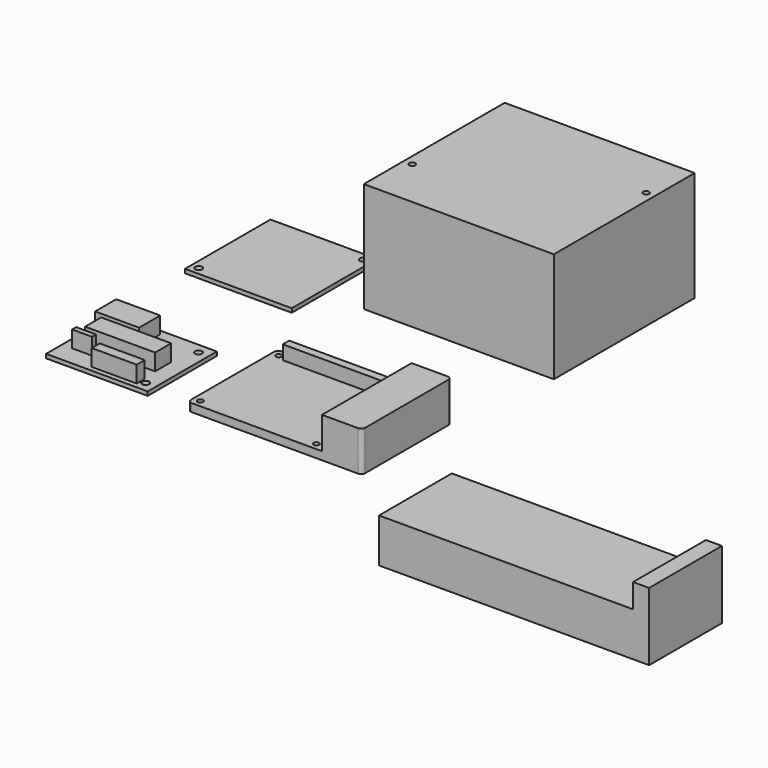
from build123d import *

# Parameters (mm, degrees)
F0_R      = 1.4
F1_DEPTH  = 4
F2_W      = 50.8
F2_H      = 4
F3_DEPTH  = 7
F5_DEPTH  = 16
F6_W      = 95
F6_H      = 88
F6_R      = 1.5
F7_DEPTH  = 55
F8_W      = 50.8
F8_H      = 43.18
F8_R      = 1.75
F8_W_2    = 53.34
F8_H_2    = 53.34
F9_DEPTH  = 2
F10_W     = 35
F10_H     = 10
F10_W_2   = 22.5
F10_H_2   = 5
F10_W_3   = 10
F10_H_3   = 2.5
F10_W_4   = 22
F10_H_4   = 13.18
F11_DEPTH = 8.3
F13_DEPTH = 45.5


with BuildPart() as f1:
    # F0 (on Top) → F1 (new body)
    with BuildSketch(Plane.XY):
        with BuildLine():
            Line((95.1, 66), (12, 66))
            ThreePointArc((12, 66), (10.585786, 65.414214), (10, 64))
            Line((10, 64), (10, 12))
            ThreePointArc((10, 12), (10.585786, 10.585786), (12, 10))
            Line((12, 10), (95.1, 10))
            ThreePointArc((95.1, 10), (96.514214, 10.585786), (97.1, 12))
            Line((97.1, 12), (97.1, 64))
            ThreePointArc((97.1, 64), (96.514214, 65.414214), (95.1, 66))
        make_face()
        with Locations((13.5, 13.5)):
            Circle(F0_R, mode=Mode.SUBTRACT)
        with Locations((71.5, 13.5)):
            Circle(F0_R, mode=Mode.SUBTRACT)
        with Locations((13.5, 62.5)):
            Circle(F0_R, mode=Mode.SUBTRACT)
        with Locations((71.5, 62.5)):
            Circle(F0_R, mode=Mode.SUBTRACT)
    extrude(amount=F1_DEPTH)

    # F2 (on face) → F3 (join)
    with BuildSketch(Plane.XY.offset(4)):
        with Locations((42.5, 62.5)):
            Rectangle(F2_W, F2_H)
    extrude(amount=F3_DEPTH)

    # F4 (on face) → F5 (join)
    with BuildSketch(Plane.XY.offset(4)):
        with BuildLine():
            ThreePointArc((97.1, 64), (96.514214, 65.414214), (95.1, 66))
            Line((95.1, 66), (77.1, 66))
            Line((77.1, 66), (77.1, 10))
            Line((77.1, 10), (95.1, 10))
            ThreePointArc((95.1, 10), (96.514214, 10.585786), (97.1, 12))
            Line((97.1, 12), (97.1, 64))
        make_face()
    extrude(amount=F5_DEPTH)


with BuildPart() as f7:
    # F6 (on Top) → F7 (new body)
    with BuildSketch(Plane.XY):
        with Locations((57.5, 164)):
            Rectangle(F6_W, F6_H)
        with Locations((14.32, 144.95)):
            Circle(F6_R, mode=Mode.SUBTRACT)
        with Locations((100.68, 183.05)):
            Circle(F6_R, mode=Mode.SUBTRACT)
    extrude(amount=F7_DEPTH)


with BuildPart() as f9:
    # F8 (on Top) → F9 (new body)
    with BuildSketch(Plane.XY):
        with Locations((-35.4, 31.59)):
            Rectangle(F8_W, F8_H)
        with Locations((-15.08, 15.08)):
            Circle(F8_R, mode=Mode.SUBTRACT)
        with Locations((-15.08, 48.1)):
            Circle(F8_R, mode=Mode.SUBTRACT)
        with Locations((-36.67, 126.67)):
            Rectangle(F8_W_2, F8_H_2)
        with Locations((-59.53, 103.81)):
            Circle(F8_R, mode=Mode.SUBTRACT)
        with Locations((-13.81, 149.53)):
            Circle(F8_R, mode=Mode.SUBTRACT)
    extrude(amount=F9_DEPTH)

    # F10 (on face) → F11 (join)
    with BuildSketch(Plane.XY.offset(2)):
        with Locations((-35.8, 30)):
            Rectangle(F10_W, F10_H)
        with Locations((-28.75, 15)):
            Rectangle(F10_W_2, F10_H_2)
        with Locations((-50.8, 21.25)):
            Rectangle(F10_W_3, F10_H_3)
        with Locations((-47.3, 44.09)):
            Rectangle(F10_W_4, F10_H_4)
    extrude(amount=F11_DEPTH)


with BuildPart() as f13:
    # F12 (on Front) → F13 (new body)
    with BuildSketch(Plane.XZ):
        Polygon((150, 22), (150, 0), (285, 0), (285, 22), (285, 34), (277, 34), (277, 22), align=None)
    extrude(amount=F13_DEPTH)


solid = Compound([f1.part, f7.part, f9.part, f13.part])
